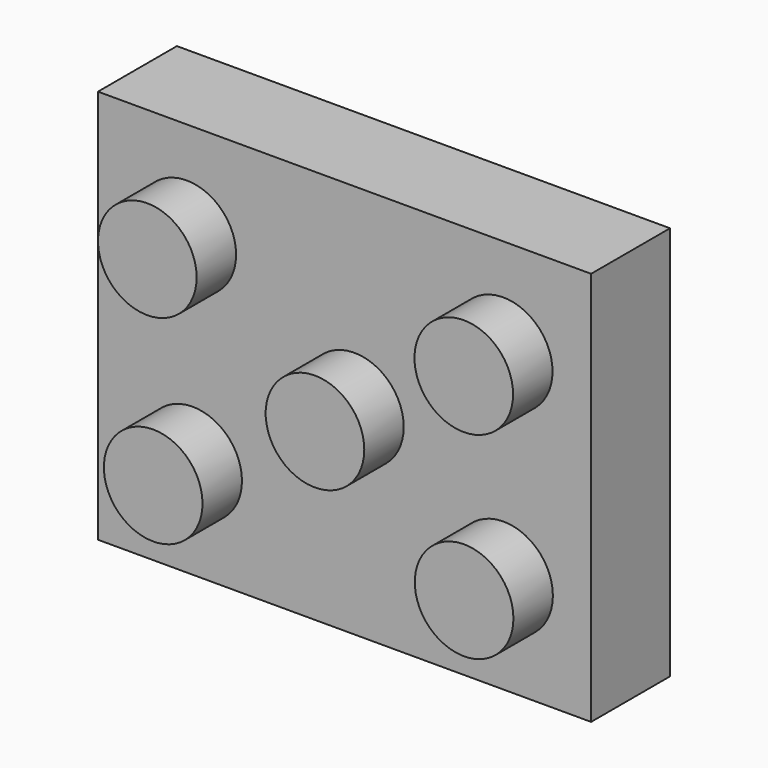
from build123d import *

# Parameters (mm, degrees)
F0_W     = 127
F0_H     = 101.6
F0_R     = 12.7
F1_DEPTH = 25.4
F2_DEPTH = 38.1


with BuildPart() as f1:
    # F0 (on Front) → F1 (new body)
    with BuildSketch(Plane.XZ):
        with Locations((-2.538756, -0.374155)):
            Rectangle(F0_W, F0_H)
        with Locations((-41.658635, -25.774155)):
            Circle(F0_R, mode=Mode.SUBTRACT)
        with Locations((38.408881, -25.774155)):
            Circle(F0_R, mode=Mode.SUBTRACT)
        with Locations((-43.173908, 25.025845)):
            Circle(F0_R, mode=Mode.SUBTRACT)
        Circle(F0_R, mode=Mode.SUBTRACT)
        with Locations((38.325403, 25.025845)):
            Circle(F0_R, mode=Mode.SUBTRACT)
    extrude(amount=F1_DEPTH)

    # F0 (on Front) → F2 (join)
    with BuildSketch(Plane.XZ):
        with Locations((-43.173908, 25.025845)):
            Circle(F0_R)
        with Locations((-41.658635, -25.774155)):
            Circle(F0_R)
        Circle(F0_R)
        with Locations((38.325403, 25.025845)):
            Circle(F0_R)
        with Locations((38.408881, -25.774155)):
            Circle(F0_R)
    extrude(amount=F2_DEPTH)


solid = f1.part
